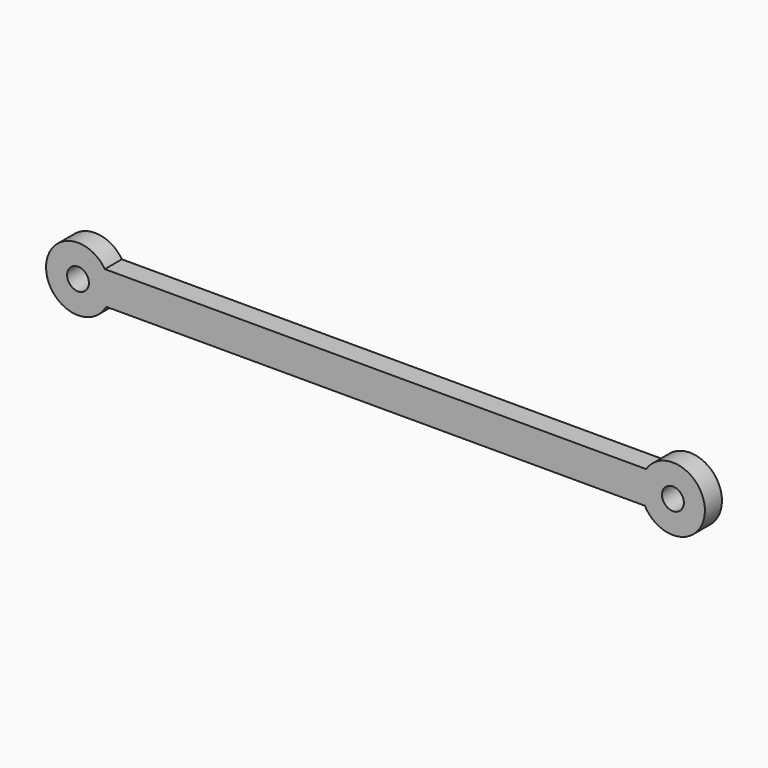
from build123d import *

# Parameters (mm, degrees)
F1_DEPTH = 3.175
F2_R     = 1.6256
F3_DEPTH = 25.4


with BuildPart() as f1:
    # F0 (on Front) → F1 (new body)
    with BuildSketch(Plane.XZ):
        with BuildLine():
            ThreePointArc((4.1850709288, -2.273012884), (4.6158859685, -1.1726052088), (4.7625, 0))
            ThreePointArc((4.7625, 0), (4.5660489226, 1.35373686), (3.9929027354, 2.5957915932))
            ThreePointArc((3.9929027354, 2.5957915932), (-4.7587947605, -0.1878261894), (4.1850709288, -2.273012884))
        make_face()
        with BuildLine():
            ThreePointArc((3.9929027354, 2.5957915932), (4.5660489226, 1.35373686), (4.7625, 0))
            ThreePointArc((4.7625, 0), (4.6158859685, -1.1726052088), (4.1850709288, -2.273012884))
            Line((4.1850709288, -2.273012884), (84.4284764559, -2.273012884))
            ThreePointArc((84.4284764559, -2.273012884), (83.8547526242, 0.1878261894), (84.6206446493, 2.5957915932))
            Line((84.6206446493, 2.5957915932), (3.9929027354, 2.5957915932))
        make_face()
        with BuildLine():
            ThreePointArc((93.3760473847, 0), (89.9672842448, 4.5660489226), (84.6206446493, 2.5957915932))
            ThreePointArc((84.6206446493, 2.5957915932), (83.8547526242, 0.1878261894), (84.4284764559, -2.273012884))
            ThreePointArc((84.4284764559, -2.273012884), (89.7861525935, -4.6158859685), (93.3760473847, 0))
        make_face()
    extrude(amount=F1_DEPTH)

    # F2 (on face) → F3 (cut)
    with BuildSketch(Plane.XZ.offset(3.175)):
        Circle(F2_R)
        with Locations((88.6135473847, 0)):
            Circle(F2_R)
    extrude(amount=-F3_DEPTH, mode=Mode.SUBTRACT)


solid = f1.part
